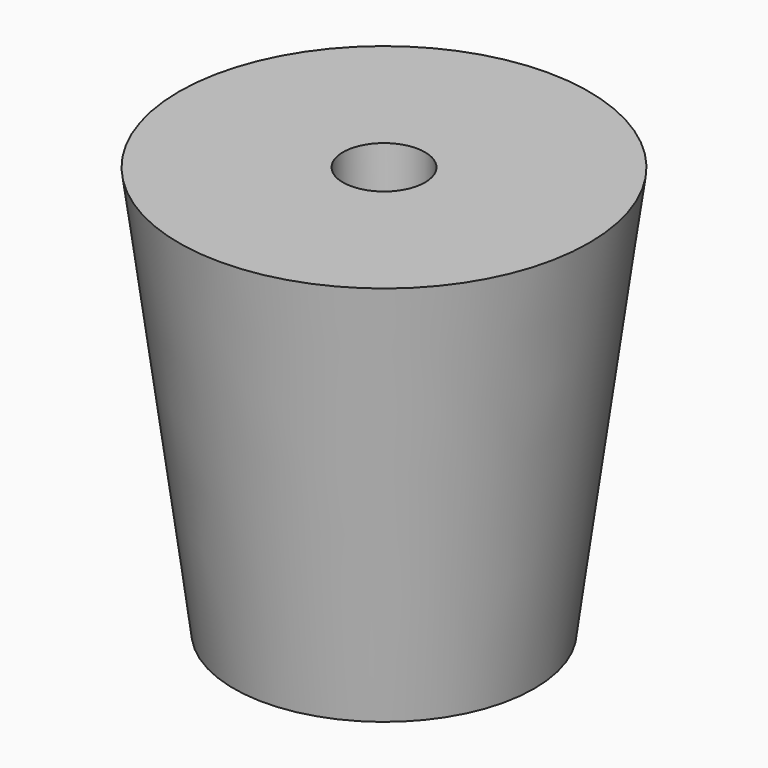
from build123d import *


with BuildPart() as part:
    # Sketch → Revolution (revolve)
    with BuildSketch(Plane.XZ):
        Polygon((3, 0), (15, 0), (11, -30), (6, -30), (6, -10), (3, -10), align=None)
    revolve(axis=Axis((0, 0, 0), (0, 0, 1)))


solid = part.part
